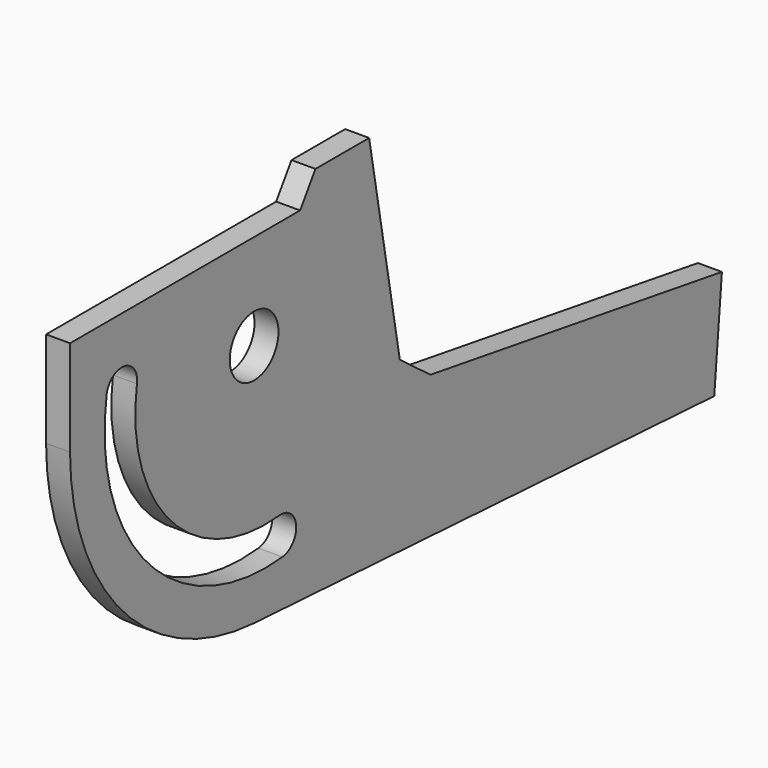
from build123d import *

# Parameters (mm, degrees)
F0_R     = 3.175
F1_DEPTH = 1.25


with BuildPart() as f1:
    # F0 (on Right) → F1 (new body, symmetric)
    with BuildSketch(Plane.YZ):
        with BuildLine():
            Line((-24, 10), (-24, 0))
            ThreePointArc((-24, 0), (-17.054114, -17.493789), (0, -25.458409))
            Line((0, -25.458409), (60, -29))
            Line((60, -29), (61, -18))
            Line((61, -18), (23, -12))
            Line((23, -12), (19, -9))
            Line((19, -9), (15, 13))
            Line((15, 13), (8, 13))
            Line((8, 13), (6, 10))
            Line((6, 10), (-24, 10))
        make_face()
        with BuildLine():
            ThreePointArc((-19.226374, 3.362237), (-16.931961, 5.016223), (-15.277975, 2.721811))
            ThreePointArc((-15.277975, 2.721811), (-10.850381, -11.679078), (3.279705, -16.906872))
            ThreePointArc((3.279705, -16.906872), (5.477806, -18.686859), (3.697819, -20.88496))
            ThreePointArc((3.697819, -20.88496), (-13.756994, -14.427096), (-19.226374, 3.362237))
        make_face(mode=Mode.SUBTRACT)
        Circle(F0_R, mode=Mode.SUBTRACT)
    extrude(amount=F1_DEPTH, both=True)


solid = f1.part
